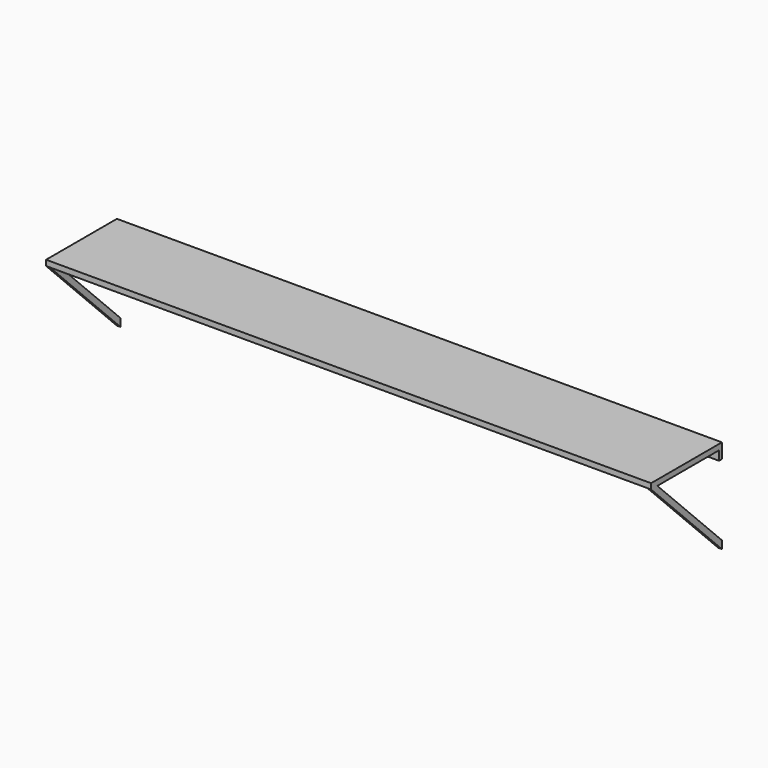
from build123d import *

# Parameters (mm, degrees)
F0_W     = 2082.8
F0_H     = 304.8
F1_DEPTH = 19.05
F2_W     = 12.7
F2_H     = 31.75
F3_DEPTH = 2082.8
F5_DEPTH = 12.7
F7_DEPTH = 12.7


with BuildPart() as f1:
    # F0 (on Top) → F1 (new body)
    with BuildSketch(Plane.XY):
        with Locations((1041.4, -152.4)):
            Rectangle(F0_W, F0_H)
    extrude(amount=F1_DEPTH)

    # F2 (on Right) → F3 (join, through all)
    with BuildSketch(Plane.YZ):
        with Locations((-6.35, -15.875)):
            Rectangle(F2_W, F2_H)
    extrude(amount=F3_DEPTH)

    # F4 (on Right) → F5 (join)
    with BuildSketch(Plane.YZ):
        Polygon((-277.859232, 0), (-304.8, 0), (0, -304.8), (0, -277.859232), align=None)
    extrude(amount=F5_DEPTH)

    # F6 (on face) → F7 (join)
    with BuildSketch(Plane.YZ.offset(2082.8)):
        Polygon((0, -304.8), (0, -277.859232), (-277.859232, 0), (-304.8, 0), align=None)
    extrude(amount=-F7_DEPTH)


solid = f1.part
